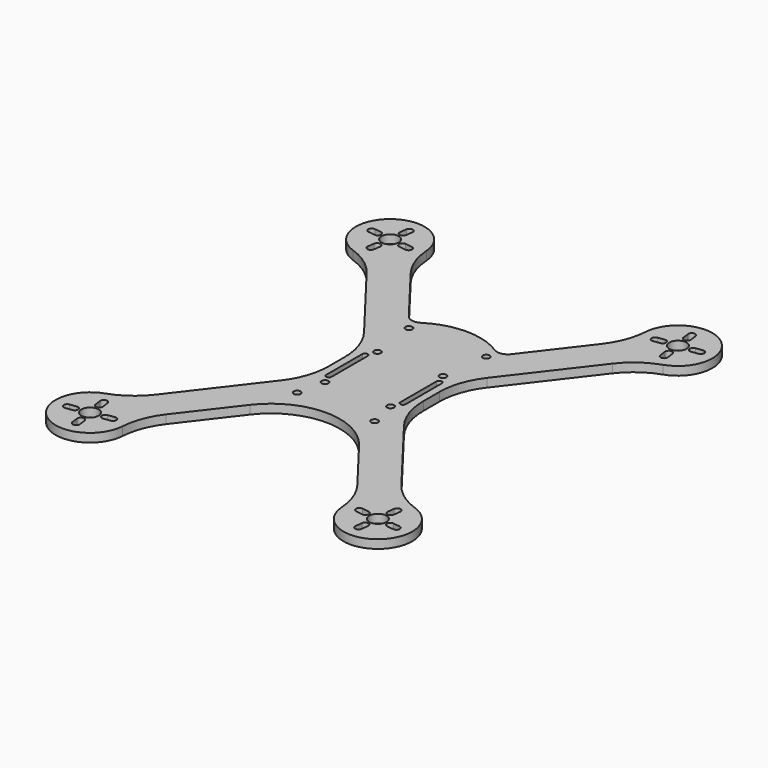
from build123d import *

# Parameters (mm, degrees)
F0_R     = 4
F0_R_2   = 1.6
F1_DEPTH = 4


with BuildPart() as f1:
    # F0 (on Top) → F1 (new body)
    with BuildSketch(Plane.XY):
        with BuildLine():
            ThreePointArc((-44.464664, 71.088916), (-49.007351, 79.246936), (-51.001624, 88.369006))
            ThreePointArc((-51.001624, 88.369006), (-76.70394, 99.962521), (-72.157713, 72.135367))
            ThreePointArc((-72.157713, 72.135367), (-63.862626, 67.848082), (-57.158318, 61.348733))
            Line((-57.158318, 61.348733), (-28.612693, 24.147351))
            ThreePointArc((-28.612693, 24.147351), (-23.698236, 14.953048), (-22, 4.666985))
            Line((-22, 4.666985), (-22, -4.666985))
            ThreePointArc((-22, -4.666985), (-23.698236, -14.953048), (-28.612693, -24.147351))
            Line((-28.612693, -24.147351), (-57.158318, -61.348733))
            ThreePointArc((-57.158318, -61.348733), (-63.862626, -67.848082), (-72.157713, -72.135367))
            ThreePointArc((-72.157713, -72.135367), (-76.70394, -99.962521), (-51.001624, -88.369006))
            ThreePointArc((-51.001624, -88.369006), (-49.007351, -79.246936), (-44.464664, -71.088916))
            Line((-44.464664, -71.088916), (-25.387307, -46.22682))
            ThreePointArc((-25.387307, -46.22682), (0, -33.707185), (25.387307, -46.22682))
            Line((25.387307, -46.22682), (44.464664, -71.088916))
            ThreePointArc((44.464664, -71.088916), (49.007351, -79.246936), (51.001624, -88.369006))
            ThreePointArc((51.001624, -88.369006), (76.70394, -99.962521), (72.157713, -72.135367))
            ThreePointArc((72.157713, -72.135367), (63.862626, -67.848082), (57.158318, -61.348733))
            Line((57.158318, -61.348733), (28.612693, -24.147351))
            ThreePointArc((28.612693, -24.147351), (23.698236, -14.953048), (22, -4.666985))
            Line((22, -4.666985), (22, 4.666985))
            ThreePointArc((22, 4.666985), (23.698236, 14.953048), (28.612693, 24.147351))
            Line((28.612693, 24.147351), (57.158318, 61.348733))
            ThreePointArc((57.158318, 61.348733), (63.862626, 67.848082), (72.157713, 72.135367))
            ThreePointArc((72.157713, 72.135367), (76.70394, 99.962521), (51.001624, 88.369006))
            ThreePointArc((51.001624, 88.369006), (49.007351, 79.246936), (44.464664, 71.088916))
            Line((44.464664, 71.088916), (23.817164, 44.18057))
            ThreePointArc((23.817164, 44.18057), (20.72098, 42.300752), (17.167911, 43.004867))
            ThreePointArc((17.167911, 43.004867), (0, 48), (-17.167911, 43.004867))
            ThreePointArc((-17.167911, 43.004867), (-20.72098, 42.300752), (-23.817164, 44.18057))
            Line((-23.817164, 44.18057), (-44.464664, 71.088916))
        make_face()
        with BuildLine():
            ThreePointArc((-67.701649, -93.922101), (-66.324179, -92.126947), (-64.529025, -93.504417))
            Line((-64.529025, -93.504417), (-64.111341, -96.677041))
            ThreePointArc((-64.111341, -96.677041), (-65.488811, -98.472194), (-67.283965, -97.094724))
            Line((-67.283965, -97.094724), (-67.701649, -93.922101))
        make_face(mode=Mode.SUBTRACT)
        with BuildLine():
            Line((-73.199307, -89.703599), (-76.37193, -90.121283))
            ThreePointArc((-76.37193, -90.121283), (-78.167084, -88.743813), (-76.789614, -86.94866))
            Line((-76.789614, -86.94866), (-73.616991, -86.530976))
            ThreePointArc((-73.616991, -86.530976), (-71.821837, -87.908446), (-73.199307, -89.703599))
        make_face(mode=Mode.SUBTRACT)
        with Locations((-66.963757, -87.268867)):
            Circle(F0_R, mode=Mode.SUBTRACT)
        with BuildLine():
            Line((-66.643549, -77.44301), (-66.225866, -80.615634))
            ThreePointArc((-66.225866, -80.615634), (-67.603336, -82.410788), (-69.398489, -81.033318))
            Line((-69.398489, -81.033318), (-69.816173, -77.860694))
            ThreePointArc((-69.816173, -77.860694), (-68.438703, -76.06554), (-66.643549, -77.44301))
        make_face(mode=Mode.SUBTRACT)
        with BuildLine():
            ThreePointArc((-60.310524, -88.006759), (-62.105677, -86.629289), (-60.728207, -84.834135))
            Line((-60.728207, -84.834135), (-57.555584, -84.416452))
            ThreePointArc((-57.555584, -84.416452), (-55.76043, -85.793921), (-57.1379, -87.589075))
            Line((-57.1379, -87.589075), (-60.310524, -88.006759))
        make_face(mode=Mode.SUBTRACT)
        with Locations((-18, -28)):
            Circle(F0_R_2, mode=Mode.SUBTRACT)
        with Locations((-15.25, -15.25)):
            Circle(F0_R_2, mode=Mode.SUBTRACT)
        with BuildLine():
            ThreePointArc((60.728207, -84.834135), (62.105677, -86.629289), (60.310524, -88.006759))
            Line((60.310524, -88.006759), (57.1379, -87.589075))
            ThreePointArc((57.1379, -87.589075), (55.76043, -85.793921), (57.555584, -84.416452))
            Line((57.555584, -84.416452), (60.728207, -84.834135))
        make_face(mode=Mode.SUBTRACT)
        with BuildLine():
            ThreePointArc((64.529025, -93.504417), (66.324179, -92.126947), (67.701649, -93.922101))
            Line((67.701649, -93.922101), (67.283965, -97.094724))
            ThreePointArc((67.283965, -97.094724), (65.488811, -98.472194), (64.111341, -96.677041))
            Line((64.111341, -96.677041), (64.529025, -93.504417))
        make_face(mode=Mode.SUBTRACT)
        with Locations((66.963757, -87.268867)):
            Circle(F0_R, mode=Mode.SUBTRACT)
        with BuildLine():
            Line((69.816173, -77.860694), (69.398489, -81.033318))
            ThreePointArc((69.398489, -81.033318), (67.603336, -82.410788), (66.225866, -80.615634))
            Line((66.225866, -80.615634), (66.643549, -77.44301))
            ThreePointArc((66.643549, -77.44301), (68.438703, -76.06554), (69.816173, -77.860694))
        make_face(mode=Mode.SUBTRACT)
        with BuildLine():
            Line((76.37193, -90.121283), (73.199307, -89.703599))
            ThreePointArc((73.199307, -89.703599), (71.821837, -87.908446), (73.616991, -86.530976))
            Line((73.616991, -86.530976), (76.789614, -86.94866))
            ThreePointArc((76.789614, -86.94866), (78.167084, -88.743813), (76.37193, -90.121283))
        make_face(mode=Mode.SUBTRACT)
        with Locations((18, -28)):
            Circle(F0_R_2, mode=Mode.SUBTRACT)
        with Locations((15.25, -15.25)):
            Circle(F0_R_2, mode=Mode.SUBTRACT)
        with BuildLine():
            Line((-18.5, -10.5), (-18.5, 10.5))
            ThreePointArc((-18.5, 10.5), (-17.25, 11.75), (-16, 10.5))
            Line((-16, 10.5), (-16, -10.5))
            ThreePointArc((-16, -10.5), (-17.25, -11.75), (-18.5, -10.5))
        make_face(mode=Mode.SUBTRACT)
        with Locations((-15.25, 15.25)):
            Circle(F0_R_2, mode=Mode.SUBTRACT)
        with Locations((-18, 37)):
            Circle(F0_R_2, mode=Mode.SUBTRACT)
        with BuildLine():
            Line((-76.37193, 90.121283), (-73.199307, 89.703599))
            ThreePointArc((-73.199307, 89.703599), (-71.821837, 87.908446), (-73.616991, 86.530976))
            Line((-73.616991, 86.530976), (-76.789614, 86.94866))
            ThreePointArc((-76.789614, 86.94866), (-78.167084, 88.743813), (-76.37193, 90.121283))
        make_face(mode=Mode.SUBTRACT)
        with BuildLine():
            Line((-69.816173, 77.860694), (-69.398489, 81.033318))
            ThreePointArc((-69.398489, 81.033318), (-67.603336, 82.410788), (-66.225866, 80.615634))
            Line((-66.225866, 80.615634), (-66.643549, 77.44301))
            ThreePointArc((-66.643549, 77.44301), (-68.438703, 76.06554), (-69.816173, 77.860694))
        make_face(mode=Mode.SUBTRACT)
        with Locations((-66.963757, 87.268867)):
            Circle(F0_R, mode=Mode.SUBTRACT)
        with BuildLine():
            Line((-64.111341, 96.677041), (-64.529025, 93.504417))
            ThreePointArc((-64.529025, 93.504417), (-66.324179, 92.126947), (-67.701649, 93.922101))
            Line((-67.701649, 93.922101), (-67.283965, 97.094724))
            ThreePointArc((-67.283965, 97.094724), (-65.488811, 98.472194), (-64.111341, 96.677041))
        make_face(mode=Mode.SUBTRACT)
        with BuildLine():
            ThreePointArc((-60.728207, 84.834135), (-62.105677, 86.629289), (-60.310524, 88.006759))
            Line((-60.310524, 88.006759), (-57.1379, 87.589075))
            ThreePointArc((-57.1379, 87.589075), (-55.76043, 85.793921), (-57.555584, 84.416452))
            Line((-57.555584, 84.416452), (-60.728207, 84.834135))
        make_face(mode=Mode.SUBTRACT)
        with BuildLine():
            ThreePointArc((16, 10.5), (17.25, 11.75), (18.5, 10.5))
            Line((18.5, 10.5), (18.5, -10.5))
            ThreePointArc((18.5, -10.5), (17.25, -11.75), (16, -10.5))
            Line((16, -10.5), (16, 10.5))
        make_face(mode=Mode.SUBTRACT)
        with Locations((15.25, 15.25)):
            Circle(F0_R_2, mode=Mode.SUBTRACT)
        with Locations((18, 37)):
            Circle(F0_R_2, mode=Mode.SUBTRACT)
        with BuildLine():
            Line((57.1379, 87.589075), (60.310524, 88.006759))
            ThreePointArc((60.310524, 88.006759), (62.105677, 86.629289), (60.728207, 84.834135))
            Line((60.728207, 84.834135), (57.555584, 84.416452))
            ThreePointArc((57.555584, 84.416452), (55.76043, 85.793921), (57.1379, 87.589075))
        make_face(mode=Mode.SUBTRACT)
        with BuildLine():
            Line((66.643549, 77.44301), (66.225866, 80.615634))
            ThreePointArc((66.225866, 80.615634), (67.603336, 82.410788), (69.398489, 81.033318))
            Line((69.398489, 81.033318), (69.816173, 77.860694))
            ThreePointArc((69.816173, 77.860694), (68.438703, 76.06554), (66.643549, 77.44301))
        make_face(mode=Mode.SUBTRACT)
        with Locations((66.963757, 87.268867)):
            Circle(F0_R, mode=Mode.SUBTRACT)
        with BuildLine():
            Line((76.789614, 86.94866), (73.616991, 86.530976))
            ThreePointArc((73.616991, 86.530976), (71.821837, 87.908446), (73.199307, 89.703599))
            Line((73.199307, 89.703599), (76.37193, 90.121283))
            ThreePointArc((76.37193, 90.121283), (78.167084, 88.743813), (76.789614, 86.94866))
        make_face(mode=Mode.SUBTRACT)
        with BuildLine():
            Line((64.529025, 93.504417), (64.111341, 96.677041))
            ThreePointArc((64.111341, 96.677041), (65.488811, 98.472194), (67.283965, 97.094724))
            Line((67.283965, 97.094724), (67.701649, 93.922101))
            ThreePointArc((67.701649, 93.922101), (66.324179, 92.126947), (64.529025, 93.504417))
        make_face(mode=Mode.SUBTRACT)
    extrude(amount=F1_DEPTH)


solid = f1.part
